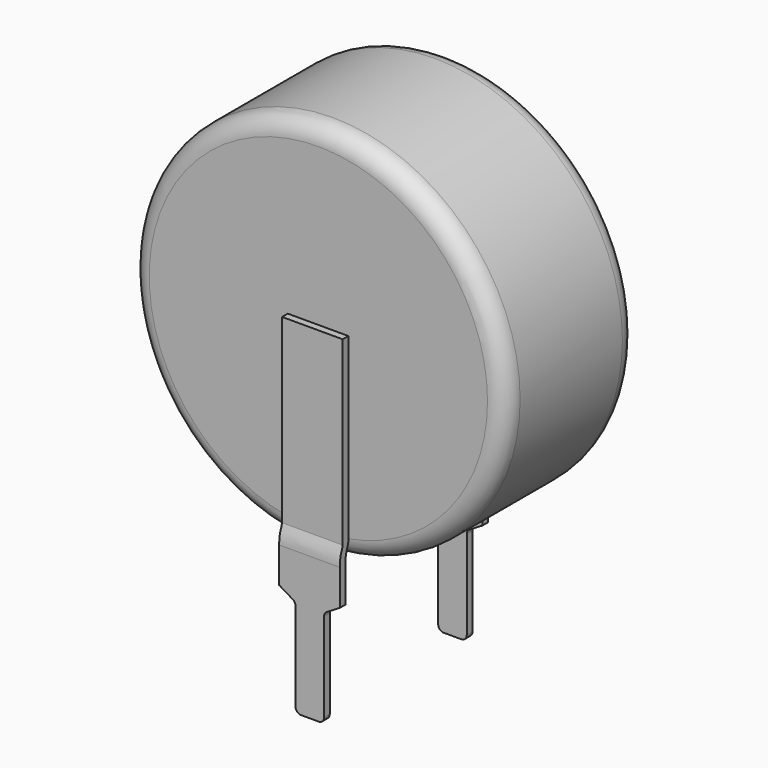
from build123d import *

# Parameters (mm, degrees)
F0_R      = 5.25
F1_DEPTH  = 4.6
F2_R      = 0.508
F4_DEPTH  = 0.2
F6_DEPTH  = 0.2
F7_W      = 0.2
F7_H      = 1
F8_DEPTH  = 1.7
F10_DEPTH = 0.2
F12_DEPTH = 0.2


with BuildPart() as f1:
    # F0 (on Front) → F1 (new body)
    with BuildSketch(Plane.XZ):
        Circle(F0_R)
    extrude(amount=F1_DEPTH)

    # F2
    f2_edges = [f1.edges().sort_by_distance(p)[0] for p in [
        (-5.25, -4.6, 0),
        (-5.25, 0, 0),
    ]]
    fillet(f2_edges, radius=F2_R)

    # F3 (on face) → F4 (join)
    with BuildSketch(Plane(origin=(0, 0, 0), x_dir=(-1, 0, 0), z_dir=(0, 1, 0))):
        with BuildLine():
            Line((0.8581771286, 0.338), (-0.8418228714, 0.338))
            Line((-0.8418228714, 0.338), (-0.8418228714, -4.6666795747))
            ThreePointArc((-0.8418228714, -4.6666795747), (-0.4225928635, -4.7231323581), (0, -4.742))
            ThreePointArc((0, -4.742), (0.430870892, -4.7223843844), (0.8581771286, -4.6636998205))
            Line((0.8581771286, -4.6636998205), (0.8581771286, 0.338))
        make_face()
        with BuildLine():
            ThreePointArc((0, -4.742), (-0.4225928635, -4.7231323581), (-0.8418228714, -4.6666795747))
            Line((-0.8418228714, -4.6666795747), (-0.8418228714, -4.742))
            Line((-0.8418228714, -4.742), (0, -4.742))
        make_face()
        with BuildLine():
            Line((0.8581771286, -4.742), (0.8581771286, -4.6636998205))
            ThreePointArc((0.8581771286, -4.6636998205), (0.430870892, -4.7223843844), (0, -4.742))
            Line((0, -4.742), (0.8581771286, -4.742))
        make_face()
    extrude(amount=F4_DEPTH)

    # F5 (on face) → F6 (join)
    with BuildSketch(Plane.XZ.offset(4.6)):
        with BuildLine():
            Line((-0.8581771286, -4.742), (0, -4.742))
            ThreePointArc((0, -4.742), (-0.430870892, -4.7223843844), (-0.8581771286, -4.6636998205))
            Line((-0.8581771286, -4.6636998205), (-0.8581771286, -4.742))
        make_face()
        with BuildLine():
            Line((0.8418228714, -4.6666795747), (0.8418228714, 0.338))
            Line((0.8418228714, 0.338), (-0.8581771286, 0.338))
            Line((-0.8581771286, 0.338), (-0.8581771286, -4.6636998205))
            ThreePointArc((-0.8581771286, -4.6636998205), (-0.430870892, -4.7223843844), (0, -4.742))
            ThreePointArc((0, -4.742), (0.4225928635, -4.7231323581), (0.8418228714, -4.6666795747))
        make_face()
        with BuildLine():
            Line((0.8418228714, -4.742), (0.8418228714, -4.6666795747))
            ThreePointArc((0.8418228714, -4.6666795747), (0.4225928635, -4.7231323581), (0, -4.742))
            Line((0, -4.742), (0.8418228714, -4.742))
        make_face()
    extrude(amount=F6_DEPTH)

    # F7 (on face) → F8 (join, through all)
    with BuildSketch(Plane.YZ.offset(0.8418228714)):
        with Locations((-4.8, -5.75)):
            Rectangle(F7_W, F7_H)
        with BuildLine():
            add(Edge.make_bspline(
                [(-4.8, -4.742), (-4.8333333333, -4.9113333333), (-4.901335109, -4.936598707), (-4.9, -5.25)],
                knots=[0, 0, 0, 0, 0.5177489739, 0.5177489739, 0.5177489739, 0.5177489739], degree=3))
            Line((-4.9, -5.25), (-4.7, -5.25))
            add(Edge.make_bspline(
                [(-4.6, -4.742), (-4.6333333333, -4.9113333333), (-4.7159921378, -4.9838428386), (-4.7, -5.25)],
                knots=[0, 0, 0, 0, 0.5177489739, 0.5177489739, 0.5177489739, 0.5177489739], degree=3))
            Line((-4.6, -4.742), (-4.8, -4.742))
        make_face()
        with Locations((0.2, -5.75)):
            Rectangle(F7_W, F7_H)
        with BuildLine():
            add(Edge.make_bspline(
                [(0, -4.742), (0.0333333333, -4.9113333333), (0.1159921378, -4.9838428386), (0.1, -5.25)],
                knots=[0, 0, 0, 0, 0.5177489739, 0.5177489739, 0.5177489739, 0.5177489739], degree=3))
            Line((0.1, -5.25), (0.3, -5.25))
            add(Edge.make_bspline(
                [(0.2, -4.742), (0.2333333333, -4.9113333333), (0.301335109, -4.936598707), (0.3, -5.25)],
                knots=[0, 0, 0, 0, 0.5177489739, 0.5177489739, 0.5177489739, 0.5177489739], degree=3))
            Line((0.2, -4.742), (0, -4.742))
        make_face()
    extrude(amount=-F8_DEPTH)

    # F9 (on face) → F10 (join, through all)
    with BuildSketch(Plane(origin=(0, 0.3, 0), x_dir=(-1, 0, 0), z_dir=(0, 1, 0))):
        with BuildLine():
            Line((0.4, -6.25), (-0.4, -6.25))
            Line((-0.4, -6.25), (-0.8418228714, -6.25))
            Line((-0.8418228714, -6.25), (-0.4735729361, -6.4726176162))
            ThreePointArc((-0.4735729361, -6.4726176162), (-0.4196612114, -6.5281834474), (-0.4, -6.6030665057))
            Line((-0.4, -6.6030665057), (-0.4, -9.0975669799))
            ThreePointArc((-0.4, -9.0975669799), (-0.3553534021, -9.2053534021), (-0.2475669799, -9.25))
            Line((-0.2475669799, -9.25), (0.2475669799, -9.25))
            ThreePointArc((0.2475669799, -9.25), (0.3553534021, -9.2053534021), (0.4, -9.0975669799))
            Line((0.4, -9.0975669799), (0.4, -6.6030665057))
            ThreePointArc((0.4, -6.6030665057), (0.4196612114, -6.5281834474), (0.4735729361, -6.4726176162))
            Line((0.4735729361, -6.4726176162), (0.8418228714, -6.25))
            Line((0.8418228714, -6.25), (0.4, -6.25))
        make_face()
    extrude(amount=-F10_DEPTH)

    # F11 (on face) → F12 (join, through all)
    with BuildSketch(Plane.XZ.offset(4.9)):
        with BuildLine():
            ThreePointArc((-0.4735729361, -6.4726176162), (-0.4196612114, -6.5281834474), (-0.4, -6.6030665057))
            Line((-0.4, -6.6030665057), (-0.4, -9.0975669799))
            ThreePointArc((-0.4, -9.0975669799), (-0.3553534021, -9.2053534021), (-0.2475669799, -9.25))
            Line((-0.2475669799, -9.25), (0.2475669799, -9.25))
            ThreePointArc((0.2475669799, -9.25), (0.3553534021, -9.2053534021), (0.4, -9.0975669799))
            Line((0.4, -9.0975669799), (0.4, -6.6030665057))
            ThreePointArc((0.4, -6.6030665057), (0.4196612114, -6.5281834474), (0.4735729361, -6.4726176162))
            Line((0.4735729361, -6.4726176162), (0.8418228714, -6.25))
            Line((0.8418228714, -6.25), (-0.8418228714, -6.25))
            Line((-0.8418228714, -6.25), (-0.4735729361, -6.4726176162))
        make_face()
    extrude(amount=-F12_DEPTH)


solid = f1.part
